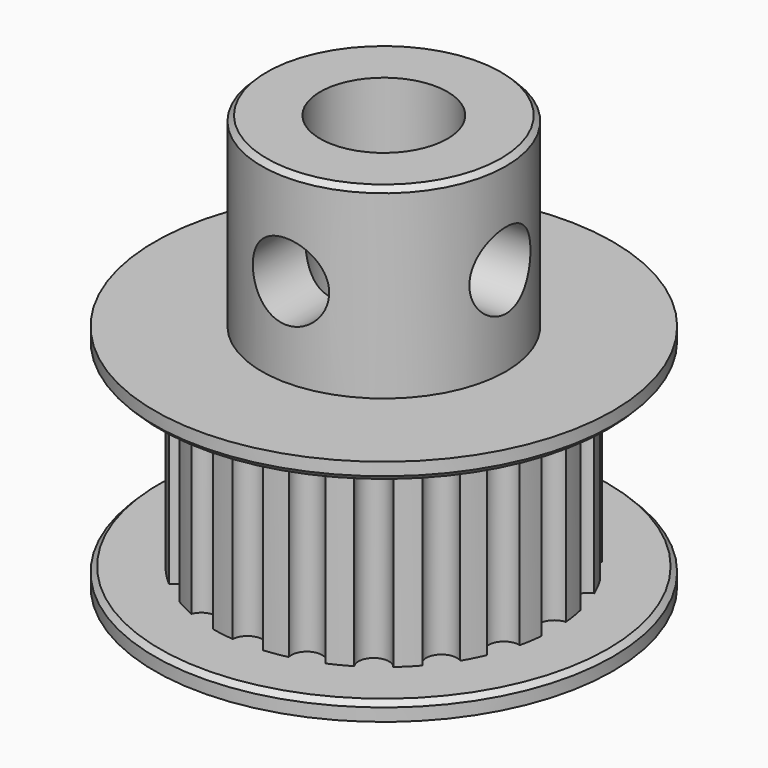
from build123d import *

# Parameters (mm, degrees)
CYLINDER004_R     = 2.5
CYLINDER004_DEPTH = 16.6
CYLINDER005_R     = 1.5
CYLINDER005_DEPTH = 9
CYLINDER008_R     = 1.5
CYLINDER008_DEPTH = 9
CYLINDER007_R     = 4.8
CYLINDER007_DEPTH = 7.3
CHAMFER003_SIZE   = 0.2
CYLINDER002_R     = 9
CYLINDER002_DEPTH = 0.7
CHAMFER_SIZE      = 0.2
CYLINDER003_R     = 9
CYLINDER003_DEPTH = 0.7
CHAMFER001_SIZE   = 0.2
CYLINDER_R        = 0.6
CYLINDER_DEPTH    = 7.6
ARRAY_COUNT       = 20
CYLINDER001_R     = 6.7
CYLINDER001_DEPTH = 7.6


with BuildPart() as cilindro004:
    # Cylinder004 → Cylinder004 (new body)
    with BuildSketch(Plane.XY):
        Circle(CYLINDER004_R)
    extrude(amount=CYLINDER004_DEPTH)


with BuildPart() as cilindro005:
    # Cylinder005 → Cylinder005 (new body)
    with BuildSketch(Plane(origin=(1, 0, 3.5), x_dir=(0, 0, -1), z_dir=(1, 0, 0))):
        Circle(CYLINDER005_R)
    extrude(amount=CYLINDER005_DEPTH)


with BuildPart() as fusion001:
    # Cylinder008 → Cylinder008 (new body)
    with BuildSketch(Plane(origin=(0, -1, 3.5), x_dir=(0, 0, -1), z_dir=(0, -1, 0))):
        Circle(CYLINDER008_R)
    extrude(amount=CYLINDER008_DEPTH)

    # Fusion001: union Cilindro005
    add(cilindro005.part)


with BuildPart() as cut001:
    # Cylinder007 → Cylinder007 (new body)
    with BuildSketch(Plane.XY):
        Circle(CYLINDER007_R)
    extrude(amount=CYLINDER007_DEPTH)

    # Chamfer003
    chamfer003_edges = [cut001.edges().sort_by_distance(p)[0] for p in [
        (-4.8, 0, 7.3),
    ]]
    chamfer(chamfer003_edges, length=CHAMFER003_SIZE)

    # Cut001: cut Fusion001
    add(fusion001.part, mode=Mode.SUBTRACT)


with BuildPart() as cut001_1:
    # Cut001 placement: moved
    add(cut001.part.moved(Location((0, 0, 9))))


with BuildPart() as chamfer_body:
    # Cylinder002 → Cylinder002 (new body)
    with BuildSketch(Plane.XY):
        Circle(CYLINDER002_R)
    extrude(amount=CYLINDER002_DEPTH)

    # Chamfer
    chamfer_edges = [chamfer_body.edges().sort_by_distance(p)[0] for p in [
        (-9, 0, 0.7),
    ]]
    chamfer(chamfer_edges, length=CHAMFER_SIZE)


with BuildPart() as chamfer001:
    # Cylinder003 → Cylinder003 (new body)
    with BuildSketch(Plane.XY.offset(8.3)):
        Circle(CYLINDER003_R)
    extrude(amount=CYLINDER003_DEPTH)

    # Chamfer001
    chamfer001_edges = [chamfer001.edges().sort_by_distance(p)[0] for p in [
        (-9, 0, 8.3),
    ]]
    chamfer(chamfer001_edges, length=CHAMFER001_SIZE)


with BuildPart() as array:
    # Cylinder → Cylinder (new body)
    with BuildSketch(Plane(origin=(6.7, 0, 0), x_dir=(1, 0, 0), z_dir=(0, 0, 1))):
        Circle(CYLINDER_R)
    extrude(amount=CYLINDER_DEPTH)

    # Array: Array ×20 about axis
    array_axis = Axis((0, 0, 0), (0, 0, 1))


with BuildPart() as array_1:
    add(array.part)
    for i in range(1, ARRAY_COUNT):
        add(array.part.rotate(array_axis, i * 360 / ARRAY_COUNT))


with BuildPart() as obj1:
    # Cylinder001 → Cylinder001 (new body)
    with BuildSketch(Plane.XY):
        Circle(CYLINDER001_R)
    extrude(amount=CYLINDER001_DEPTH)

    # Cut: cut Array
    add(array_1.part, mode=Mode.SUBTRACT)


with BuildPart() as obj1_1:
    # Cut placement: moved
    add(obj1.part.moved(Location((0, 0, 0.7))))

    # Fusion: union Chamfer body, Chamfer001
    add(chamfer_body.part)
    add(chamfer001.part)

    # Fusion002: union Cut001
    add(cut001_1.part)

    # Cut002: cut Cilindro004
    add(cilindro004.part, mode=Mode.SUBTRACT)


solid = obj1_1.part
